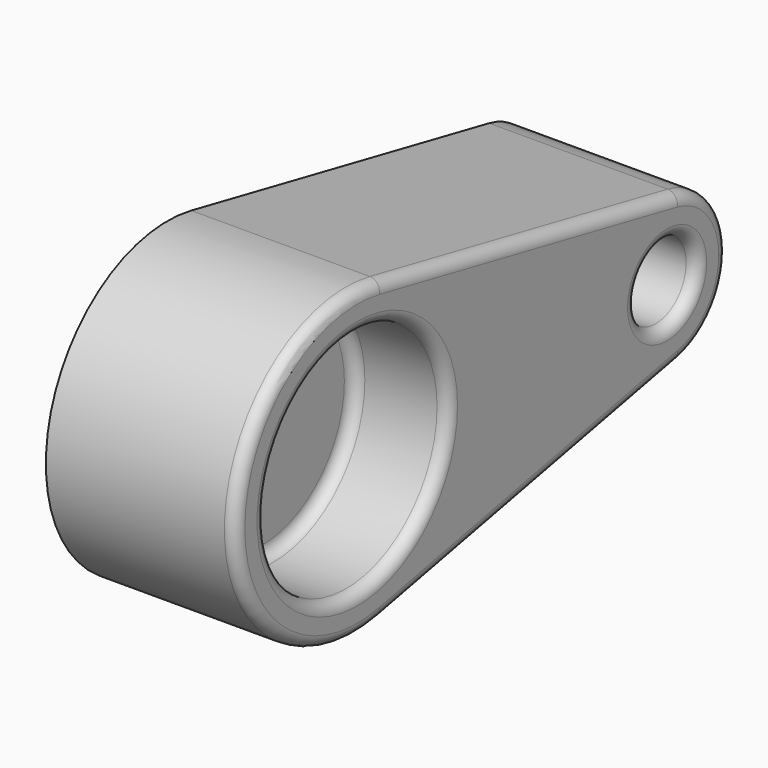
from build123d import *

# Parameters (mm, degrees)
F1_DEPTH = 50
F2_R     = 30
F2_R_2   = 10
F3_DEPTH = 25
F4_R     = 3
F5_T     = -2


with BuildPart() as f1:
    # F0 (on Right) → F1 (new body)
    with BuildSketch(Plane.YZ):
        with BuildLine():
            ThreePointArc((7.844645, -39.223227), (30.933686, -25.359556), (40, 0))
            ThreePointArc((40, 0), (30.933686, 25.359556), (7.844645, 39.223227))
            ThreePointArc((7.844645, 39.223227), (-40, 0), (7.844645, -39.223227))
        make_face()
        with BuildLine():
            ThreePointArc((7.844645, 39.223227), (30.933686, 25.359556), (40, 0))
            ThreePointArc((40, 0), (30.933686, -25.359556), (7.844645, -39.223227))
            Line((7.844645, -39.223227), (105.902713, -19.611614))
            ThreePointArc((105.902713, -19.611614), (81.98039, 0), (105.902713, 19.611614))
            Line((105.902713, 19.611614), (7.844645, 39.223227))
        make_face()
        with BuildLine():
            ThreePointArc((121.98039, 0), (117.447233, 12.679778), (105.902713, 19.611614))
            ThreePointArc((105.902713, 19.611614), (81.98039, 0), (105.902713, -19.611614))
            ThreePointArc((105.902713, -19.611614), (117.447233, -12.679778), (121.98039, 0))
        make_face()
    extrude(amount=F1_DEPTH)

    # F2 (on face) → F3 (cut)
    with BuildSketch(Plane.YZ.offset(50)):
        Circle(F2_R)
        with Locations((101.98039, 0)):
            Circle(F2_R_2)
    extrude(amount=-F3_DEPTH, mode=Mode.SUBTRACT)

    # F4
    f4_edges = [f1.edges().sort_by_distance(p)[0] for p in [
        (50, -40, 0),
        (50, 56.873679, -29.41742),
        (50, 56.873679, 29.41742),
        (50, 121.98039, 0),
        (50, -30, 0),
        (50, 91.98039, 0),
        (25, -30, 0),
        (25, 91.98039, 0),
    ]]
    fillet(f4_edges, radius=F4_R)

    # F5
    f5_openings = [f1.faces().sort_by_distance(p)[0] for p in [
        (0, 33.018989, 0),
    ]]
    offset(amount=F5_T, openings=f5_openings)


solid = f1.part
